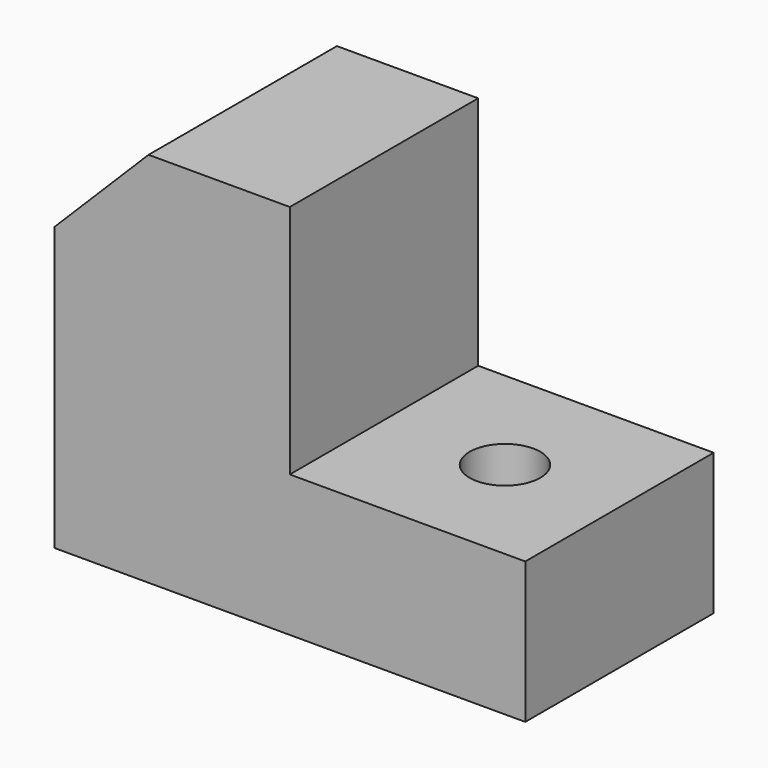
from build123d import *

# Parameters (mm, degrees)
F0_W     = 100
F0_H     = 50
F1_DEPTH = 80
F2_W     = 50
F2_H     = 50
F3_DEPTH = 50
F5_DEPTH = 50
F6_R     = 7.5
F7_DEPTH = 30


with BuildPart() as f1:
    # F0 (on Top) → F1 (new body)
    with BuildSketch(Plane.XY):
        with Locations((50, 25)):
            Rectangle(F0_W, F0_H)
    extrude(amount=F1_DEPTH)

    # F2 (on face) → F3 (cut)
    with BuildSketch(Plane.XY.offset(80)):
        with Locations((75, 25)):
            Rectangle(F2_W, F2_H)
    extrude(amount=-F3_DEPTH, mode=Mode.SUBTRACT)

    # F4 (on face) → F5 (cut, through all)
    with BuildSketch(Plane.XZ):
        Polygon((20, 80), (0, 80), (0, 60), align=None)
    extrude(amount=-F5_DEPTH, mode=Mode.SUBTRACT)

    # F6 (on face) → F7 (cut, through all)
    with BuildSketch(Plane.XY.offset(30)):
        with Locations((75.687505, 25)):
            Circle(F6_R)
    extrude(amount=-F7_DEPTH, mode=Mode.SUBTRACT)


solid = f1.part
